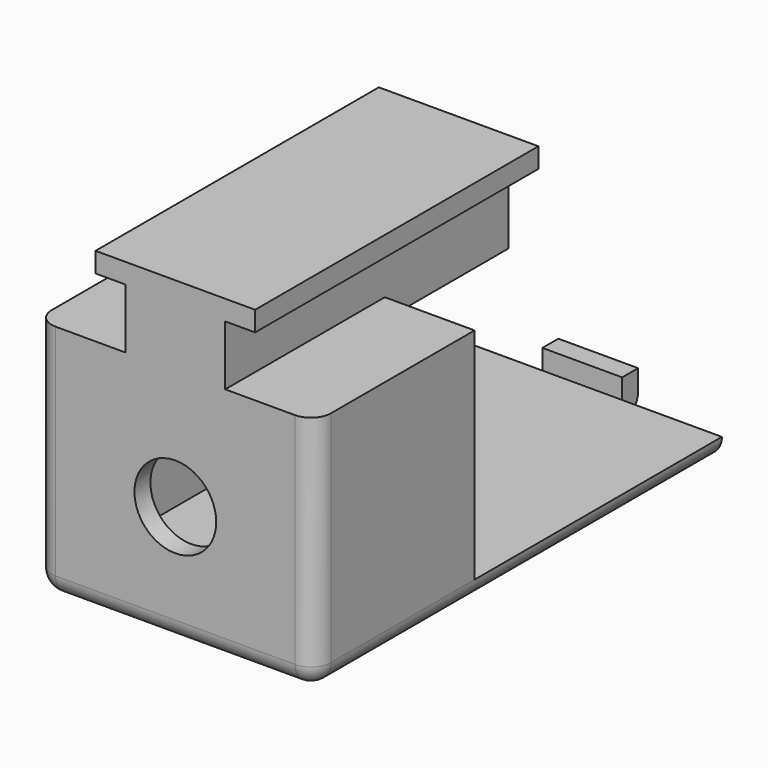
from build123d import *

# Parameters (mm, degrees)
F0_W      = 14
F0_H      = 25.5
F1_DEPTH  = 12
F2_T      = -1
F3_R      = 2.05
F4_DEPTH  = 25
F5_W      = 5
F5_H      = 10
F6_DEPTH  = 3
F7_R      = 1
F8_W      = 5
F8_H      = 3
F9_DEPTH  = 7.75
F10_W     = 8
F10_H     = 17.75
F11_DEPTH = 1
F13_DEPTH = 11
F14_W     = 4
F14_H     = 2
F15_DEPTH = 1
F16_R     = 1


with BuildPart() as f1:
    # F0 (on Top) → F1 (new body)
    with BuildSketch(Plane.XY):
        Rectangle(F0_W, F0_H)
    extrude(amount=F1_DEPTH)

    # F2
    f2_openings = [f1.faces().sort_by_distance(p)[0] for p in [
        (0, 12.75, 6),
    ]]
    offset(amount=F2_T, openings=f2_openings)

    # F3 (on face) → F4 (cut)
    with BuildSketch(Plane.XZ.offset(12.75)):
        with Locations((0, 6)):
            Circle(F3_R)
    extrude(amount=-F4_DEPTH, mode=Mode.SUBTRACT)

    # F5 (on face) → F6 (join)
    with BuildSketch(Plane.XY.offset(12)):
        Rectangle(F5_W, F5_H)
    extrude(amount=F6_DEPTH)

    # F7
    f7_edges = [f1.edges().sort_by_distance(p)[0] for p in [
        (7, 0, 0),
        (-7, 0, 0),
        (-7, -12.75, 6),
        (0, -12.75, 0),
        (7, -12.75, 6),
    ]]
    fillet(f7_edges, radius=F7_R)

    # F8 (on face) → F9 (join)
    with BuildSketch(Plane.XZ.offset(5)):
        with Locations((0, 13.5)):
            Rectangle(F8_W, F8_H)
    extrude(amount=F9_DEPTH)

    # F10 (on face) → F11 (join)
    with BuildSketch(Plane.XY.offset(15)):
        with Locations((0, -3.875)):
            Rectangle(F10_W, F10_H)
    extrude(amount=F11_DEPTH)

    # F12 (on face) → F13 (cut)
    with BuildSketch(Plane.XY.offset(12)):
        Polygon((7, -2.75), (7, 12.75), (-7, 12.75), (-7, -2.75), (-2.5, -2.75), (-2.5, 5), (2.5, 5), (2.5, -2.75), align=None)
    extrude(amount=-F13_DEPTH, mode=Mode.SUBTRACT)

    # F14 (on face) → F15 (join)
    with BuildSketch(Plane(origin=(0, 12.75, 0), x_dir=(-1, 0, 0), z_dir=(0, 1, 0))):
        with Locations((0, 1)):
            Rectangle(F14_W, F14_H)
    extrude(amount=F15_DEPTH)

    # F16
    f16_edges = [f1.edges().sort_by_distance(p)[0] for p in [
        (0, 13.75, 0),
    ]]
    fillet(f16_edges, radius=F16_R)


solid = f1.part
